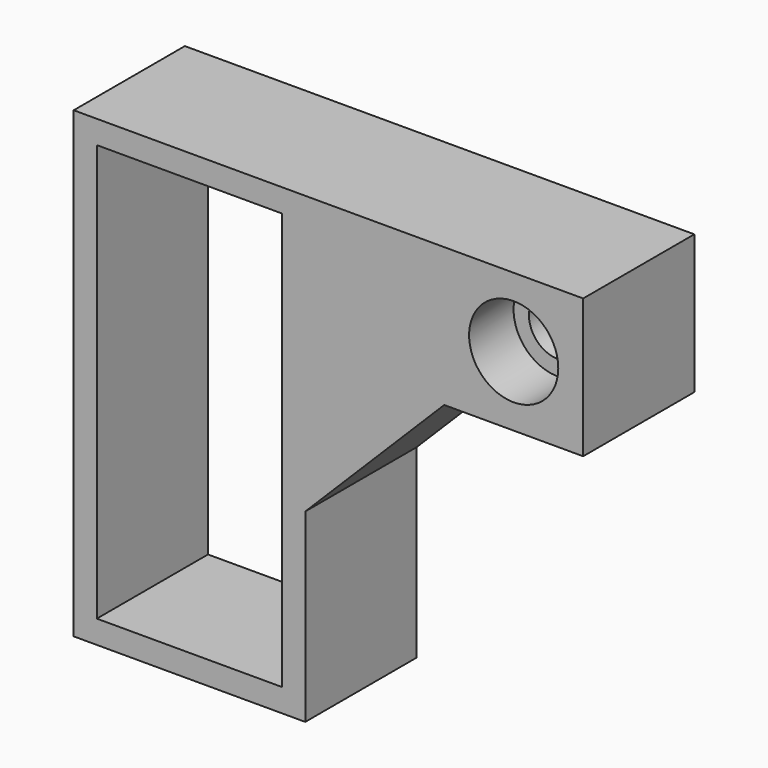
from build123d import *

# Parameters (mm, degrees)
F0_W           = 40
F0_H           = 90
F1_DEPTH       = 30
F2_D           = 12.6
F2_CBORE_D     = 19.25
F2_CBORE_DEPTH = 12


with BuildPart() as f1:
    # F0 (on Front) → F1 (new body)
    with BuildSketch(Plane.XZ):
        Polygon((0, -40), (0, 0), (30, 30), (60, 30), (60, 60), (-50, 60), (-50, -40), align=None)
        with Locations((-25, 10)):
            Rectangle(F0_W, F0_H, mode=Mode.SUBTRACT)
    extrude(amount=-F1_DEPTH)

    # F2 (through all)
    with Locations(Plane.XZ):
        with Locations((45, 45)):
            CounterBoreHole(F2_D / 2, F2_CBORE_D / 2, F2_CBORE_DEPTH)


solid = f1.part
